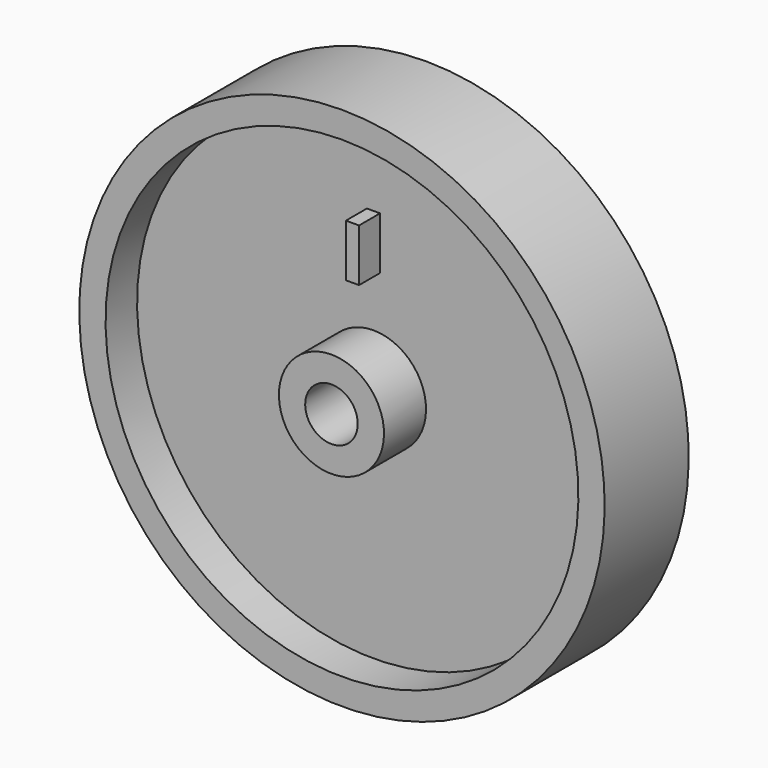
from build123d import *

# Parameters (mm, degrees)
F3_W     = 2.5
F3_H     = 10
F4_DEPTH = 5


with BuildPart() as f2:
    # F0 (on Right) → F2 (revolve)
    with BuildSketch(Plane.YZ):
        Polygon((-25, 5), (0, 5), (0, 10), (-10, 10), (-10, 45), (-2.5, 45), (-2.5, 50), (-22.5, 50), (-22.5, 45), (-15, 45), (-15, 10), (-25, 10), align=None)
    revolve(axis=Axis((0, -23.925491, 0), (0, -1, 0)))

    # F3 (on face) → F4 (join)
    with BuildSketch(Plane.XZ.offset(15)):
        with Locations((0, 25)):
            Rectangle(F3_W, F3_H)
    extrude(amount=F4_DEPTH)


solid = f2.part
